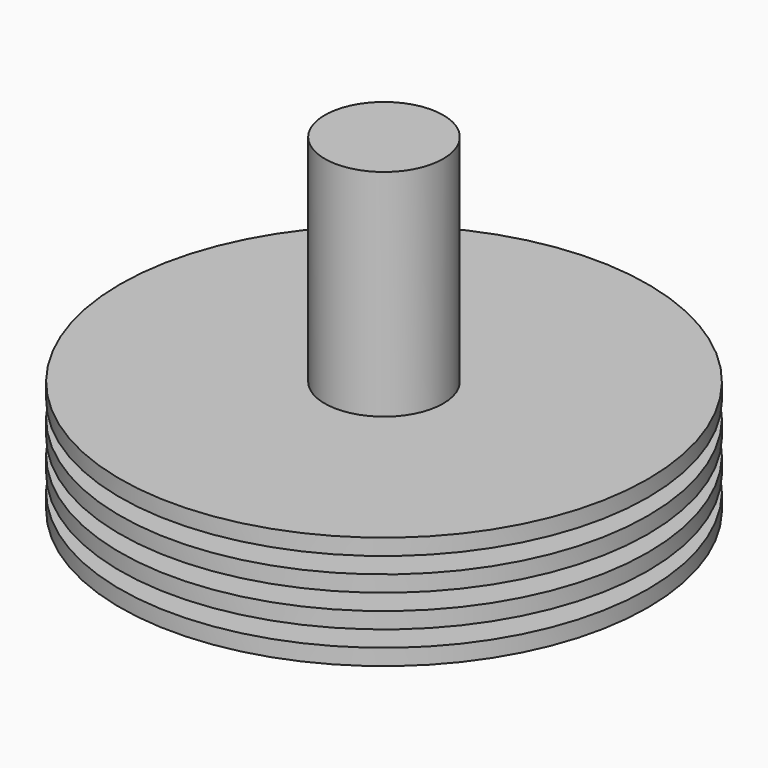
from build123d import *


with BuildPart() as f1:
    # F0 (on Front) → F1 (revolve)
    with BuildSketch(Plane.XZ):
        Polygon((31.115, 23.714939), (31.115, 25.619939), (6.985, 25.619939), (6.985, 51.019939), (0, 51.019939), (0, 1.888357), (3.81, 1.888357), (31.115, 12.284939), (31.115, 14.189939), (6.972755, 14.189939), (6.972755, 16.094939), (31.115, 16.094939), (31.115, 17.999939), (6.972755, 17.999939), (6.972755, 19.904939), (31.115, 19.904939), (31.115, 21.809939), (6.972755, 21.809939), (6.972755, 23.714939), align=None)
    revolve(axis=Axis((0, 0, 26.454148), (0, 0, -1)))


solid = f1.part
